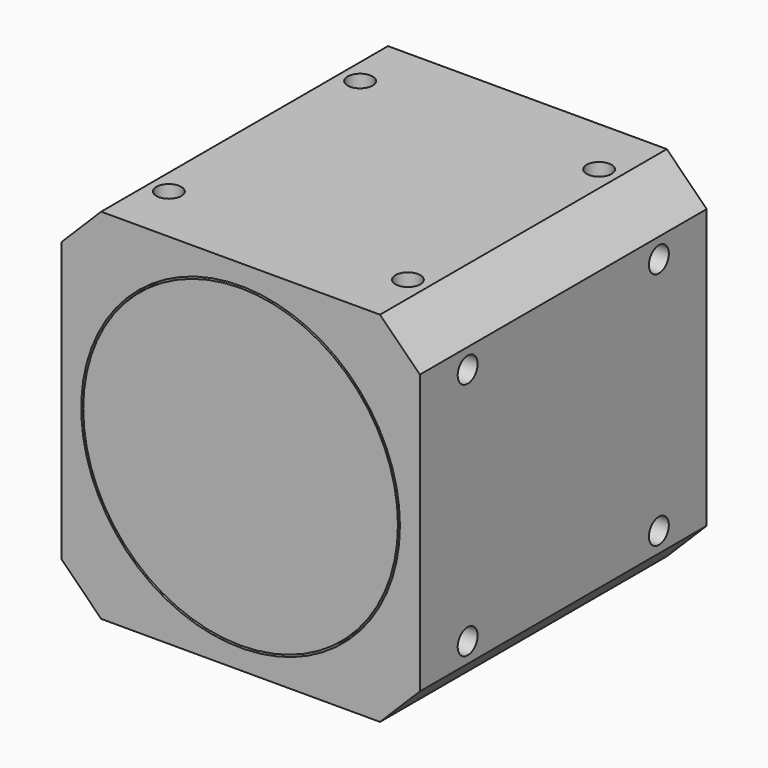
from build123d import *

# Parameters (mm, degrees)
F0_W     = 36
F0_H     = 36
F1_DEPTH = 36
F2_R     = 16
F2_R_2   = 15.8
F3_DEPTH = 2
F4_R     = 1.25
F5_DEPTH = 36.001
F6_R     = 1.25
F7_DEPTH = 36.001
F8_SIZE  = 4


with BuildPart() as f1:
    # F0 (on Front) → F1 (new body)
    with BuildSketch(Plane.XZ):
        Rectangle(F0_W, F0_H)
    extrude(amount=F1_DEPTH)

    # F2 (on face) → F3 (cut)
    with BuildSketch(Plane.XZ.offset(36)):
        Circle(F2_R)
        Circle(F2_R_2, mode=Mode.SUBTRACT)
    extrude(amount=-F3_DEPTH, mode=Mode.SUBTRACT)

    # F4 (on face) → F5 (cut, through all)
    with BuildSketch(Plane.YZ.offset(18)):
        with Locations((-30, 12)):
            Circle(F4_R)
        with Locations((-6, 12)):
            Circle(F4_R)
        with Locations((-6, -12)):
            Circle(F4_R)
        with Locations((-30, -12)):
            Circle(F4_R)
    extrude(amount=-F5_DEPTH, mode=Mode.SUBTRACT)

    # F6 (on face) → F7 (cut, through all)
    with BuildSketch(Plane.XY.offset(18)):
        with Locations((-12, -30)):
            Circle(F6_R)
        with Locations((-12, -6)):
            Circle(F6_R)
        with Locations((12, -6)):
            Circle(F6_R)
        with Locations((12, -30)):
            Circle(F6_R)
    extrude(amount=-F7_DEPTH, mode=Mode.SUBTRACT)

    # F8
    f8_edges = [f1.edges().sort_by_distance(p)[0] for p in [
        (18, -18, 18),
        (-18, -18, 18),
        (18, -18, -18),
        (-18, -18, -18),
    ]]
    chamfer(f8_edges, length=F8_SIZE)


solid = f1.part
